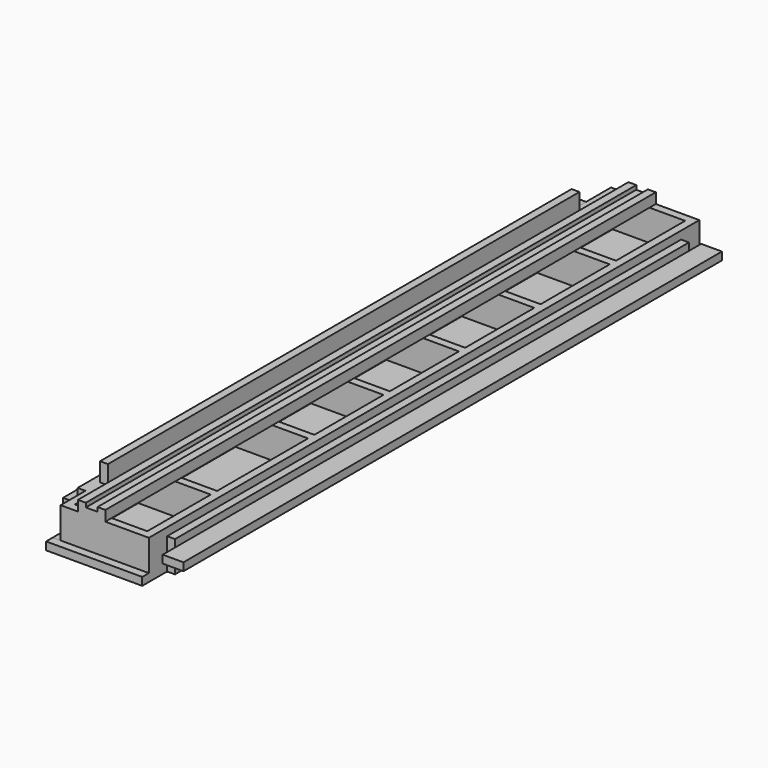
from build123d import *

# Parameters (mm, degrees)
F1_DEPTH  = 830
F3_W      = 175
F3_H      = 208.411221
F3_H_2    = 191.514383
F3_H_3    = 274.429512
F4_DEPTH  = 100
F5_W      = 66
F5_H      = 1660
F6_DEPTH  = 25
F8_DEPTH  = 850
F9_W      = 122.856574
F9_H      = 166.578976
F9_W_2    = 121.810914
F9_H_2    = 225.922749
F10_DEPTH = 19
F11_W     = 112.336252
F11_H     = 147.87124
F11_W_2   = 352.187574
F11_H_2   = 391.13912
F12_DEPTH = 19
F13_W     = 207.220667
F13_H     = 66.810839
F13_W_2   = 205.507578
F13_H_2   = 71.950136
F14_DEPTH = 25
F15_W     = 1624
F15_H     = 19
F16_DEPTH = 50
F17_W     = 95
F17_H     = 152.758643
F18_DEPTH = 19
F19_W     = 175
F19_H     = 208.411221
F19_H_2   = 274.429512
F19_H_3   = 191.514383
F20_DEPTH = 19
F21_W     = 1
F21_H     = 1550
F22_DEPTH = 1
F23_W     = 28
F23_H     = 10
F24_DEPTH = 2000


with BuildPart() as f1:
    # F0 (on Front) → F1 (new body, symmetric)
    with BuildSketch(Plane.XZ):
        Polygon((-19, 75), (-19, 0), (213, 0), (213, 75), (19, 75), (19, 120), (0, 120), (0, 75), align=None)
    extrude(amount=F1_DEPTH, both=True)

    # F3 (on offset) → F4 (cut)
    with BuildSketch(Plane.XY.offset(19)):
        with Locations((106.5, 706.794389)):
            Rectangle(F3_W, F3_H)
        with Locations((106.5, 479.383168)):
            Rectangle(F3_W, F3_H)
        with Locations((106.5, 251.971947)):
            Rectangle(F3_W, F3_H)
        with Locations((106.5, 24.560727)):
            Rectangle(F3_W, F3_H)
        with Locations((106.5, -715.242808)):
            Rectangle(F3_W, F3_H_2)
        with Locations((106.5, -463.270861)):
            Rectangle(F3_W, F3_H_3)
        with Locations((106.5, -202.850494)):
            Rectangle(F3_W, F3_H)
    extrude(amount=F4_DEPTH, mode=Mode.SUBTRACT)

    # F5 (on face) → F6 (join)
    with BuildSketch(Plane.XY.offset(75)):
        with Locations((75, 0)):
            Rectangle(F5_W, F5_H)
    extrude(amount=F6_DEPTH)

    # F7 (on Front) → F8 (join, symmetric)
    with BuildSketch(Plane.XZ):
        Polygon((-19, 0), (-19, 56), (-38, 56), (-38, -19), (232, -19), (232, 56), (213, 56), (213, 0), align=None)
    extrude(amount=F8_DEPTH, both=True)

    # F9 (on face) → F10 (cut)
    with BuildSketch(Plane(origin=(-38, 0, 0), x_dir=(0, -1, 0), z_dir=(-1, 0, 0))):
        with Locations((-836.428287, 29.298866)):
            Rectangle(F9_W, F9_H)
        with Locations((835.905457, 44.395097)):
            Rectangle(F9_W_2, F9_H_2)
    extrude(amount=-F10_DEPTH, mode=Mode.SUBTRACT)

    # F11 (on face) → F12 (cut)
    with BuildSketch(Plane.YZ.offset(232)):
        with Locations((-831.168126, 15.196573)):
            Rectangle(F11_W, F11_H)
        with Locations((951.093787, 3.835678)):
            Rectangle(F11_W_2, F11_H_2)
    extrude(amount=-F12_DEPTH, mode=Mode.SUBTRACT)

    # F13 (on face) → F14 (cut)
    with BuildSketch(Plane(origin=(0, 0, 0), x_dir=(0, -1, 0), z_dir=(-1, 0, 0))):
        with Locations((-814.610334, 108.405419)):
            Rectangle(F13_W, F13_H)
        with Locations((813.753789, 110.975068)):
            Rectangle(F13_W_2, F13_H_2)
    extrude(amount=-F14_DEPTH, mode=Mode.SUBTRACT)

    # F15 (on face) → F16 (join)
    with BuildSketch(Plane.YZ.offset(232)):
        with Locations((0, 28.5)):
            Rectangle(F15_W, F15_H)
    extrude(amount=F16_DEPTH)

    # F17 (on face) → F18 (cut)
    with BuildSketch(Plane(origin=(-19, 0, 0), x_dir=(0, -1, 0), z_dir=(-1, 0, 0))):
        Polygon((-850, 136.20314), (-850, 0), (-755.000354, 0), (-755.000354, 136.462602), align=None)
        with Locations((802.5, 76.379322)):
            Rectangle(F17_W, F17_H)
    extrude(amount=-F18_DEPTH, mode=Mode.SUBTRACT)

    # F19 (on face) → F20 (cut)
    with BuildSketch(Plane.XY.offset(19)):
        with Locations((106.5, 706.794389)):
            Rectangle(F19_W, F19_H)
        with Locations((106.5, 479.383168)):
            Rectangle(F19_W, F19_H)
        with Locations((106.5, 251.971947)):
            Rectangle(F19_W, F19_H)
        with Locations((106.5, 24.560727)):
            Rectangle(F19_W, F19_H)
        with Locations((106.5, -202.850494)):
            Rectangle(F19_W, F19_H)
        with Locations((106.5, -463.270861)):
            Rectangle(F19_W, F19_H_2)
        with Locations((106.5, -715.242808)):
            Rectangle(F19_W, F19_H_3)
    extrude(amount=-F20_DEPTH, mode=Mode.SUBTRACT)

    # F21 (on face) → F22 (join)
    with BuildSketch(Plane(origin=(0, 0, -19), x_dir=(1, 0, 0), z_dir=(0, 0, -1))):
        with Locations((212.5, 0)):
            Rectangle(F21_W, F21_H)
        with Locations((-18.5, 0)):
            Rectangle(F21_W, F21_H)
    extrude(amount=F22_DEPTH)

    # F23 (on face) → F24 (cut)
    with BuildSketch(Plane(origin=(0, 830, 0), x_dir=(-1, 0, 0), z_dir=(0, 1, 0))):
        with Locations((-75, 95)):
            Rectangle(F23_W, F23_H)
    extrude(amount=-F24_DEPTH, mode=Mode.SUBTRACT)


solid = f1.part
